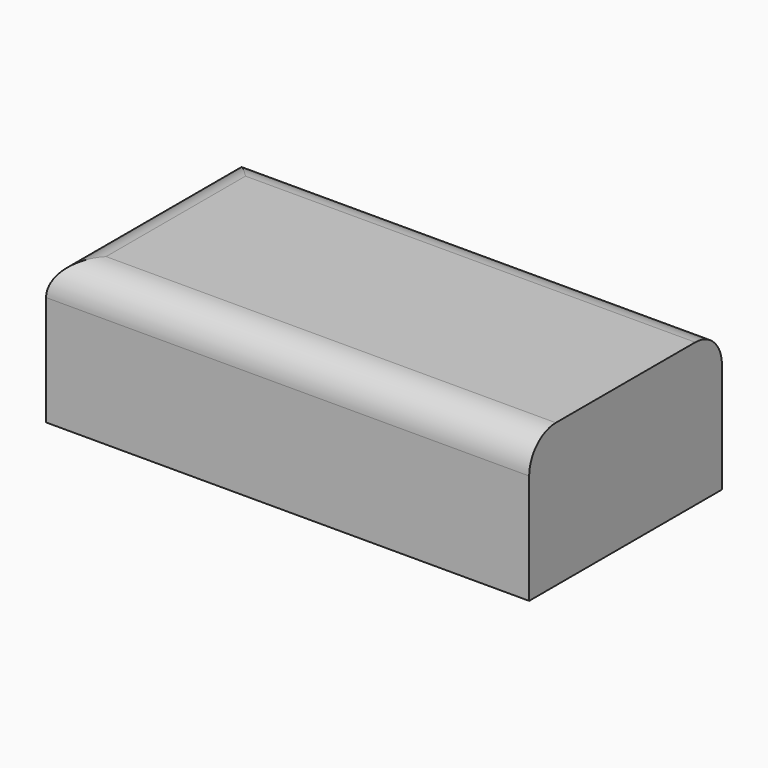
from build123d import *

# Parameters (mm, degrees)
F0_W     = 73.66
F0_H     = 36.738612
F1_DEPTH = 10.922
F2_R     = 5.08


with BuildPart() as f1:
    # F0 (on Top) → F1 (new body, symmetric)
    with BuildSketch(Plane.XY):
        Rectangle(F0_W, F0_H)
    extrude(amount=F1_DEPTH, both=True)

    # F2
    f2_edges = [f1.edges().sort_by_distance(p)[0] for p in [
        (-36.83, 0, 10.922),
        (0, -18.369306, 10.922),
        (0, 18.369306, 10.922),
    ]]
    fillet(f2_edges, radius=F2_R)


solid = f1.part
